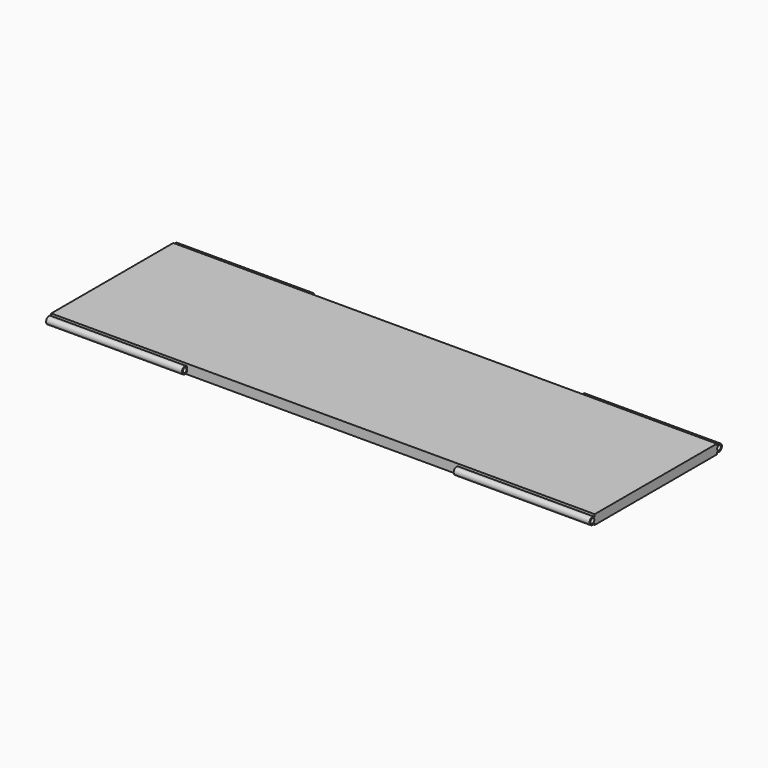
from build123d import *

# Parameters (mm, degrees)
F0_W     = 1447.8
F0_H     = 406.4
F5_DEPTH = 12.7
F4_R     = 9.525
F4_R_2   = 6.35
F6_DEPTH = 361.95
F3_R     = 9.525
F3_R_2   = 6.35
F7_DEPTH = 361.95
F8_DEPTH = 361.95
F9_DEPTH = 361.95


with BuildPart() as f5:
    # F0 (on Top) → F5 (new body, symmetric)
    with BuildSketch(Plane.XY):
        Rectangle(F0_W, F0_H)
    extrude(amount=F5_DEPTH, both=True)

    # F4 (on offset) → F6 (join)
    with BuildSketch(Plane.YZ.offset(-361.95)):
        with Locations((210.82, 0)):
            Circle(F4_R)
        with Locations((210.82, 0)):
            Circle(F4_R_2, mode=Mode.SUBTRACT)
    extrude(amount=-F6_DEPTH)

    # F3 (on offset) → F7 (join)
    with BuildSketch(Plane.YZ.offset(361.95)):
        with Locations((210.82, 0)):
            Circle(F3_R)
        with Locations((210.82, 0)):
            Circle(F3_R_2, mode=Mode.SUBTRACT)
    extrude(amount=F7_DEPTH)

    # F4 (on offset) → F8 (join)
    with BuildSketch(Plane.YZ.offset(-361.95)):
        with Locations((-210.82, 0.1492979936)):
            Circle(F4_R)
        with Locations((-210.82, 0.1492979936)):
            Circle(F4_R_2, mode=Mode.SUBTRACT)
    extrude(amount=-F8_DEPTH)

    # F3 (on offset) → F9 (join)
    with BuildSketch(Plane.YZ.offset(361.95)):
        with Locations((-210.82, -0.1084019023)):
            Circle(F3_R)
        with Locations((-210.82, -0.1084019023)):
            Circle(F3_R_2, mode=Mode.SUBTRACT)
    extrude(amount=F9_DEPTH)


solid = f5.part
